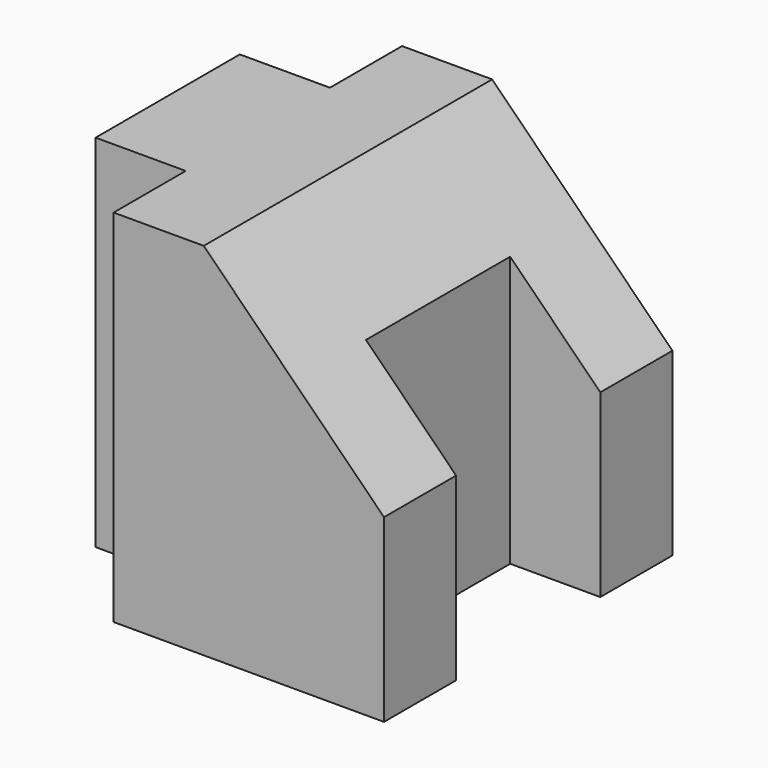
from build123d import *

# Parameters (mm, degrees)
F0_W     = 50.8
F0_H     = 50.8
F1_DEPTH = 50.8
F2_W     = 12.7
F2_H     = 12.7
F2_H_2   = 25.4
F3_DEPTH = 76.2
F5_DEPTH = 101.6


with BuildPart() as f1:
    # F0 (on Front) → F1 (new body)
    with BuildSketch(Plane.XZ):
        with Locations((25.4, 25.4)):
            Rectangle(F0_W, F0_H)
    extrude(amount=-F1_DEPTH)

    # F2 (on face) → F3 (cut)
    with BuildSketch(Plane.XY.offset(50.8)):
        with Locations((6.35, 44.45)):
            Rectangle(F2_W, F2_H)
        with Locations((6.35, 6.35)):
            Rectangle(F2_W, F2_H)
        with Locations((44.45, 25.4)):
            Rectangle(F2_W, F2_H_2)
    extrude(amount=-F3_DEPTH, mode=Mode.SUBTRACT)

    # F4 (on face) → F5 (cut)
    with BuildSketch(Plane.XZ):
        Polygon((50.8, 50.8), (25.4, 50.8), (50.8, 25.4), align=None)
    extrude(amount=-F5_DEPTH, mode=Mode.SUBTRACT)


solid = f1.part
